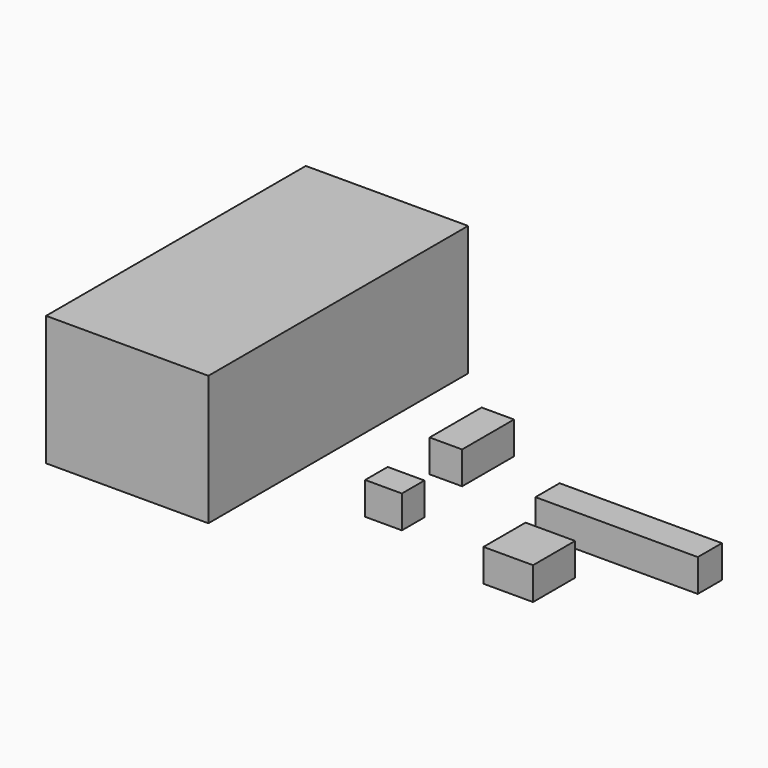
from build123d import *

# Parameters (mm, degrees)
F0_W     = 25.4
F0_H     = 50.8
F0_W_2   = 127
F0_H_2   = 23.619188
F0_W_3   = 38.774828
F0_H_3   = 41.136755
F0_W_4   = 28.73668
F0_H_4   = 22.044578
F1_DEPTH = 25.4
F2_W     = 127
F2_H     = 254
F3_DEPTH = 101.6


with BuildPart() as f1:
    # F0 (on Top) → F1 (new body)
    with BuildSketch(Plane.XY):
        with Locations((-80.694205, 49.216016)):
            Rectangle(F0_W, F0_H)
        with Locations((69.896862, 14.368339)):
            Rectangle(F0_W_2, F0_H_2)
        with Locations((42.120884, -48.124099)):
            Rectangle(F0_W_3, F0_H_3)
        with Locations((-74.695684, -33.657345)):
            Rectangle(F0_W_4, F0_H_4)
    extrude(amount=F1_DEPTH)


with BuildPart() as f3:
    # F2 (on Top) → F3 (new body)
    with BuildSketch(Plane.XY):
        with Locations((-221.981157, 15.797222)):
            Rectangle(F2_W, F2_H)
    extrude(amount=F3_DEPTH)


solid = Compound([f1.part, f3.part])
